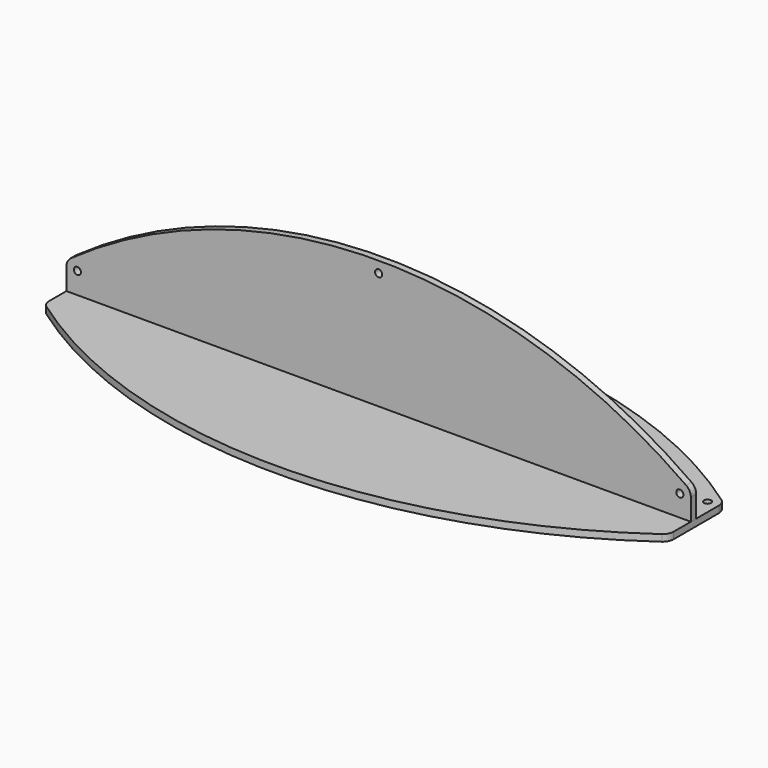
from build123d import *

# Parameters (mm, degrees)
CYLINDER002_R             = 1.6
CYLINDER002_DEPTH         = 10
CYLINDER003_R             = 1.6
CYLINDER003_DEPTH         = 10
CYLINDER004_R             = 1.6
CYLINDER004_DEPTH         = 10
BOX001_W                  = 100
BOX001_H                  = 10
BOX001_DEPTH              = 400
BOX002_W                  = 800
BOX002_H                  = 10
BOX002_DEPTH              = 800
BOX_W                     = 100
BOX_H                     = 10
BOX_DEPTH                 = 400
CYLINDER_R                = 237.321
CYLINDER_DEPTH            = 3
FILLET_R                  = 4.9
BOX005_W                  = 100
BOX005_H                  = 10
BOX005_DEPTH              = 400
BOX003_W                  = 800
BOX003_H                  = 10
BOX003_DEPTH              = 800
BOX004_W                  = 100
BOX004_H                  = 10
BOX004_DEPTH              = 400
CYLINDER001_R             = 237.321
CYLINDER001_DEPTH         = 3
FILLET001_R               = 4.9
FILLET001_PLACEMENT_ANGLE = 90
CYLINDER008_R             = 1.6
CYLINDER008_DEPTH         = 10
CYLINDER006_R             = 1.6
CYLINDER006_DEPTH         = 10
CYLINDER005_R             = 1.6
CYLINDER005_DEPTH         = 10
BOX008_W                  = 100
BOX008_H                  = 10
BOX008_DEPTH              = 400
BOX006_W                  = 800
BOX006_H                  = 10
BOX006_DEPTH              = 800
BOX011_W                  = 100
BOX011_H                  = 10
BOX011_DEPTH              = 400
CYLINDER007_R             = 237.321
CYLINDER007_DEPTH         = 3
FILLET003_R               = 4.9
CUT004_PLACEMENT_ANGLE    = 270
BOX007_W                  = 100
BOX007_H                  = 10
BOX007_DEPTH              = 400
BOX009_W                  = 800
BOX009_H                  = 10
BOX009_DEPTH              = 800
BOX010_W                  = 100
BOX010_H                  = 10
BOX010_DEPTH              = 400
CYLINDER009_R             = 237.321
CYLINDER009_DEPTH         = 3
FILLET002_R               = 4.9
FILLET002_PLACEMENT_ANGLE = 90


with BuildPart() as ctr_hole:
    # Cylinder002 → Cylinder002 (new body)
    with BuildSketch(Plane(origin=(0, 0, 42.8), x_dir=(1, 0, 0), z_dir=(0, -1, 0))):
        Circle(CYLINDER002_R)
    extrude(amount=CYLINDER002_DEPTH)


with BuildPart() as left_hole:
    # Cylinder003 → Cylinder003 (new body)
    with BuildSketch(Plane(origin=(-134.4, 4, 0), x_dir=(1, 0, 0), z_dir=(0, -1, 0))):
        Circle(CYLINDER003_R)
    extrude(amount=CYLINDER003_DEPTH)


with BuildPart() as screw_holes:
    # Cylinder004 → Cylinder004 (new body)
    with BuildSketch(Plane(origin=(134.4, 4, 0), x_dir=(1, 0, 0), z_dir=(0, -1, 0))):
        Circle(CYLINDER004_R)
    extrude(amount=CYLINDER004_DEPTH)

    # Fusion002: union ctr hole, left hole
    add(ctr_hole.part)
    add(left_hole.part)


with BuildPart() as left_cut:
    # Box001 → Box001 (new body)
    with BuildSketch(Plane(origin=(-139.3, 3, -205), x_dir=(-1, 0, 0), z_dir=(0, 0, 1))):
        with Locations((50, 5)):
            Rectangle(BOX001_W, BOX001_H)
    extrude(amount=BOX001_DEPTH)


with BuildPart() as bottom_cut:
    # Box002 → Box002 (new body)
    with BuildSketch(Plane(origin=(400, -7, 177), x_dir=(-1, 0, 0), z_dir=(0, 0, -1))):
        with Locations((400, 5)):
            Rectangle(BOX002_W, BOX002_H)
    extrude(amount=BOX002_DEPTH)


with BuildPart() as left_right_bottom_cuts:
    # Box → Box (new body)
    with BuildSketch(Plane(origin=(139.3, -6, -205), x_dir=(1, 0, 0), z_dir=(0, 0, 1))):
        with Locations((50, 5)):
            Rectangle(BOX_W, BOX_H)
    extrude(amount=BOX_DEPTH)

    # Fusion: union left cut, bottom cut
    add(left_cut.part)
    add(bottom_cut.part)


with BuildPart() as vertical:
    # Cylinder → Cylinder (new body)
    with BuildSketch(Plane.XZ):
        Circle(CYLINDER_R)
    extrude(amount=CYLINDER_DEPTH)

    # Cut: cut left right bottom cuts
    add(left_right_bottom_cuts.part, mode=Mode.SUBTRACT)


with BuildPart() as vertical_1:
    # Cut placement: moved
    add(vertical.part.moved(Location((0, 0, -190))))

    # Fillet
    fillet_edges = [vertical_1.edges().sort_by_distance(p)[0] for p in [
        (-139.3, -1.5, 2.137365),
        (139.3, -1.5, 2.137365),
    ]]
    fillet(fillet_edges, radius=FILLET_R)


with BuildPart() as vertical_2:
    # Fillet placement: moved
    add(vertical_1.part.moved(Location((0, 0, 0.5))))

    # Cut002: cut screw holes
    add(screw_holes.part, mode=Mode.SUBTRACT)


with BuildPart() as left_cut001:
    # Box005 → Box005 (new body)
    with BuildSketch(Plane(origin=(-139.3, 3, -205), x_dir=(-1, 0, 0), z_dir=(0, 0, 1))):
        with Locations((50, 5)):
            Rectangle(BOX005_W, BOX005_H)
    extrude(amount=BOX005_DEPTH)


with BuildPart() as bottom_cut001:
    # Box003 → Box003 (new body)
    with BuildSketch(Plane(origin=(400, -7, 177), x_dir=(-1, 0, 0), z_dir=(0, 0, -1))):
        with Locations((400, 5)):
            Rectangle(BOX003_W, BOX003_H)
    extrude(amount=BOX003_DEPTH)


with BuildPart() as left_right_bottom_cuts001:
    # Box004 → Box004 (new body)
    with BuildSketch(Plane(origin=(139.3, -6, -205), x_dir=(1, 0, 0), z_dir=(0, 0, 1))):
        with Locations((50, 5)):
            Rectangle(BOX004_W, BOX004_H)
    extrude(amount=BOX004_DEPTH)

    # Fusion001: union left cut001, bottom cut001
    add(left_cut001.part)
    add(bottom_cut001.part)


with BuildPart() as bent_version:
    # Cylinder001 → Cylinder001 (new body)
    with BuildSketch(Plane.XZ):
        Circle(CYLINDER001_R)
    extrude(amount=CYLINDER001_DEPTH)

    # Cut001: cut left right bottom cuts001
    add(left_right_bottom_cuts001.part, mode=Mode.SUBTRACT)


with BuildPart() as bent_version_1:
    # Cut001 placement: moved
    add(bent_version.part.moved(Location((0, 0, -190))))

    # Fillet001
    fillet001_edges = [bent_version_1.edges().sort_by_distance(p)[0] for p in [
        (-139.3, -1.5, 2.137365),
        (139.3, -1.5, 2.137365),
    ]]
    fillet(fillet001_edges, radius=FILLET001_R)


with BuildPart() as bent_version_2:
    # Fillet001 placement: moved
    add(bent_version_1.part.moved(Location((0, -13, -9.5))).rotate(Axis((0, -13, -9.5), (1, 0, 0)), FILLET001_PLACEMENT_ANGLE))

    # Fusion003: union vertical
    add(vertical_2.part)


with BuildPart() as bent_version_3:
    # Fusion003 placement: moved
    add(bent_version_2.part.moved(Location((0, -1.6, 0))))


with BuildPart() as ctr_hole001:
    # Cylinder008 → Cylinder008 (new body)
    with BuildSketch(Plane(origin=(0, 0, 42.8), x_dir=(1, 0, 0), z_dir=(0, -1, 0))):
        Circle(CYLINDER008_R)
    extrude(amount=CYLINDER008_DEPTH)


with BuildPart() as left_hole001:
    # Cylinder006 → Cylinder006 (new body)
    with BuildSketch(Plane(origin=(-134.4, 4, 0), x_dir=(1, 0, 0), z_dir=(0, -1, 0))):
        Circle(CYLINDER006_R)
    extrude(amount=CYLINDER006_DEPTH)


with BuildPart() as screw_holes001:
    # Cylinder005 → Cylinder005 (new body)
    with BuildSketch(Plane(origin=(134.4, 4, 0), x_dir=(1, 0, 0), z_dir=(0, -1, 0))):
        Circle(CYLINDER005_R)
    extrude(amount=CYLINDER005_DEPTH)

    # Fusion005: union ctr hole001, left hole001
    add(ctr_hole001.part)
    add(left_hole001.part)


with BuildPart() as left_cut003:
    # Box008 → Box008 (new body)
    with BuildSketch(Plane(origin=(-139.3, 3, -205), x_dir=(-1, 0, 0), z_dir=(0, 0, 1))):
        with Locations((50, 5)):
            Rectangle(BOX008_W, BOX008_H)
    extrude(amount=BOX008_DEPTH)


with BuildPart() as bottom_cut002:
    # Box006 → Box006 (new body)
    with BuildSketch(Plane(origin=(400, -7, 177), x_dir=(-1, 0, 0), z_dir=(0, 0, -1))):
        with Locations((400, 5)):
            Rectangle(BOX006_W, BOX006_H)
    extrude(amount=BOX006_DEPTH)


with BuildPart() as left_right_bottom_cuts002:
    # Box011 → Box011 (new body)
    with BuildSketch(Plane(origin=(139.3, -6, -205), x_dir=(1, 0, 0), z_dir=(0, 0, 1))):
        with Locations((50, 5)):
            Rectangle(BOX011_W, BOX011_H)
    extrude(amount=BOX011_DEPTH)

    # Fusion004: union left cut003, bottom cut002
    add(left_cut003.part)
    add(bottom_cut002.part)


with BuildPart() as vertical001:
    # Cylinder007 → Cylinder007 (new body)
    with BuildSketch(Plane.XZ):
        Circle(CYLINDER007_R)
    extrude(amount=CYLINDER007_DEPTH)

    # Cut003: cut left right bottom cuts002
    add(left_right_bottom_cuts002.part, mode=Mode.SUBTRACT)


with BuildPart() as vertical001_1:
    # Cut003 placement: moved
    add(vertical001.part.moved(Location((0, 0, -190))))

    # Fillet003
    fillet003_edges = [vertical001_1.edges().sort_by_distance(p)[0] for p in [
        (-139.3, -1.5, 2.137365),
        (139.3, -1.5, 2.137365),
    ]]
    fillet(fillet003_edges, radius=FILLET003_R)


with BuildPart() as vertical001_2:
    # Fillet003 placement: moved
    add(vertical001_1.part.moved(Location((0, 0, 0.5))))

    # Cut004: cut screw holes001
    add(screw_holes001.part, mode=Mode.SUBTRACT)


with BuildPart() as vertical001_3:
    # Cut004 placement: moved
    add(vertical001_2.part.moved(Location((0, 12.5, -12.5))).rotate(Axis((0, 12.5, -12.5), (1, 0, 0)), CUT004_PLACEMENT_ANGLE))


with BuildPart() as left_cut002:
    # Box007 → Box007 (new body)
    with BuildSketch(Plane(origin=(-139.3, 3, -205), x_dir=(-1, 0, 0), z_dir=(0, 0, 1))):
        with Locations((50, 5)):
            Rectangle(BOX007_W, BOX007_H)
    extrude(amount=BOX007_DEPTH)


with BuildPart() as bottom_cut003:
    # Box009 → Box009 (new body)
    with BuildSketch(Plane(origin=(400, -7, 177), x_dir=(-1, 0, 0), z_dir=(0, 0, -1))):
        with Locations((400, 5)):
            Rectangle(BOX009_W, BOX009_H)
    extrude(amount=BOX009_DEPTH)


with BuildPart() as left_right_bottom_cuts003:
    # Box010 → Box010 (new body)
    with BuildSketch(Plane(origin=(139.3, -6, -205), x_dir=(1, 0, 0), z_dir=(0, 0, 1))):
        with Locations((50, 5)):
            Rectangle(BOX010_W, BOX010_H)
    extrude(amount=BOX010_DEPTH)

    # Fusion006: union left cut002, bottom cut003
    add(left_cut002.part)
    add(bottom_cut003.part)


with BuildPart() as flat:
    # Cylinder009 → Cylinder009 (new body)
    with BuildSketch(Plane.XZ):
        Circle(CYLINDER009_R)
    extrude(amount=CYLINDER009_DEPTH)

    # Cut005: cut left right bottom cuts003
    add(left_right_bottom_cuts003.part, mode=Mode.SUBTRACT)


with BuildPart() as flat_1:
    # Cut005 placement: moved
    add(flat.part.moved(Location((0, 0, -190))))

    # Fillet002
    fillet002_edges = [flat_1.edges().sort_by_distance(p)[0] for p in [
        (-139.3, -1.5, 2.137365),
        (139.3, -1.5, 2.137365),
    ]]
    fillet(fillet002_edges, radius=FILLET002_R)


with BuildPart() as flat_2:
    # Fillet002 placement: moved
    add(flat_1.part.moved(Location((0, -13, -9.5))).rotate(Axis((0, -13, -9.5), (1, 0, 0)), FILLET002_PLACEMENT_ANGLE))

    # Fusion007: union vertical001
    add(vertical001_3.part)


with BuildPart() as flat_3:
    # Fusion007 placement: moved
    add(flat_2.part.moved(Location((0, -1.6, 0))))


solid = Compound([bent_version_3.part, flat_3.part])
